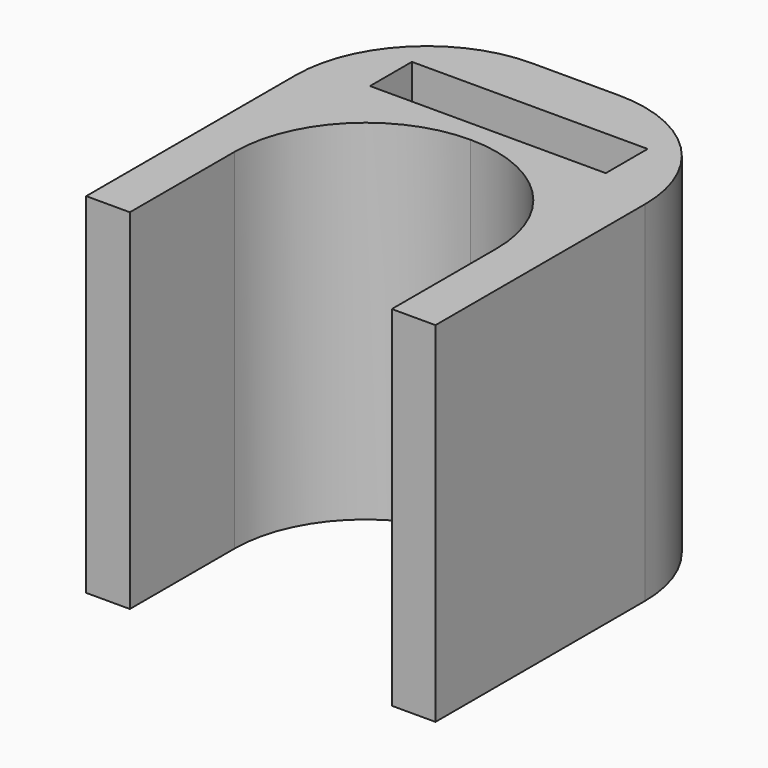
from build123d import *

# Parameters (mm, degrees)
F0_W     = 27
F0_H     = 6
F1_DEPTH = 40


with BuildPart() as f1:
    # F0 (on Top) → F1 (new body)
    with BuildSketch(Plane.XY):
        with BuildLine():
            Line((0, 30), (0, 0))
            Line((0, 0), (5, 0))
            Line((5, 0), (5, 15))
            ThreePointArc((5, 15), (9.393398, 25.606602), (20, 30))
            ThreePointArc((20, 30), (30.606602, 25.606602), (35, 15))
            Line((35, 15), (35, 0))
            Line((35, 0), (40, 0))
            Line((40, 0), (40, 30))
            ThreePointArc((40, 30), (35.606602, 40.606602), (25, 45))
            Line((25, 45), (15, 45))
            ThreePointArc((15, 45), (4.393398, 40.606602), (0, 30))
        make_face()
        with Locations((20, 35.5)):
            Rectangle(F0_W, F0_H, mode=Mode.SUBTRACT)
    extrude(amount=F1_DEPTH)


solid = f1.part
